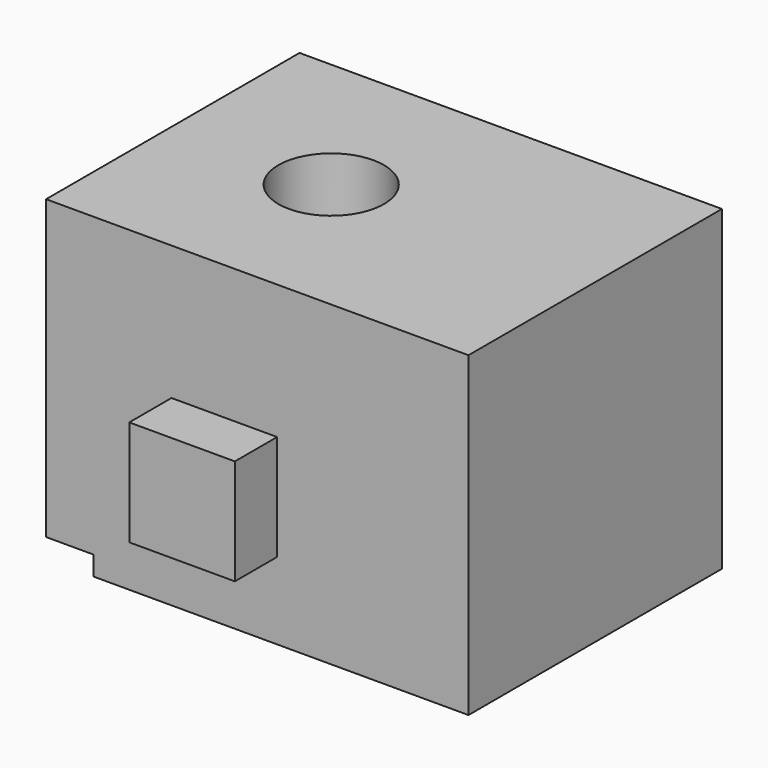
from build123d import *

# Parameters (mm, degrees)
F1_DEPTH = 76.2
F2_W     = 25.4
F2_H     = 25.4
F3_DEPTH = 12.7
F4_W     = 76.2
F4_H     = 76.2
F6_DEPTH = 25.4
F7_D     = 25.4


with BuildPart() as f1:
    # F0 (on Front) → F1 (new body)
    with BuildSketch(Plane.XZ):
        Polygon((-21.166943, 89.049337), (-21.166943, 17.506457), (-9.800089, 17.506457), (-9.800089, 12.849337), (55.033057, 12.849337), (55.033057, 89.049337), align=None)
    extrude(amount=F1_DEPTH)

    # F2 (on face) → F3 (join)
    with BuildSketch(Plane.XZ.offset(76.2)):
        with Locations((21.700043, 44.061859)):
            Rectangle(F2_W, F2_H)
    extrude(amount=F3_DEPTH)

    # F4 (on face) → F6 (join)
    with BuildSketch(Plane.YZ.offset(55.033057)):
        with Locations((-38.1, 50.949337)):
            Rectangle(F4_W, F4_H)
    extrude(amount=F6_DEPTH)

    # F7 (through all)
    with Locations(Plane.XY.offset(89.049337)):
        with Locations((16.933057, -38.1)):
            Hole(F7_D / 2)


solid = f1.part
